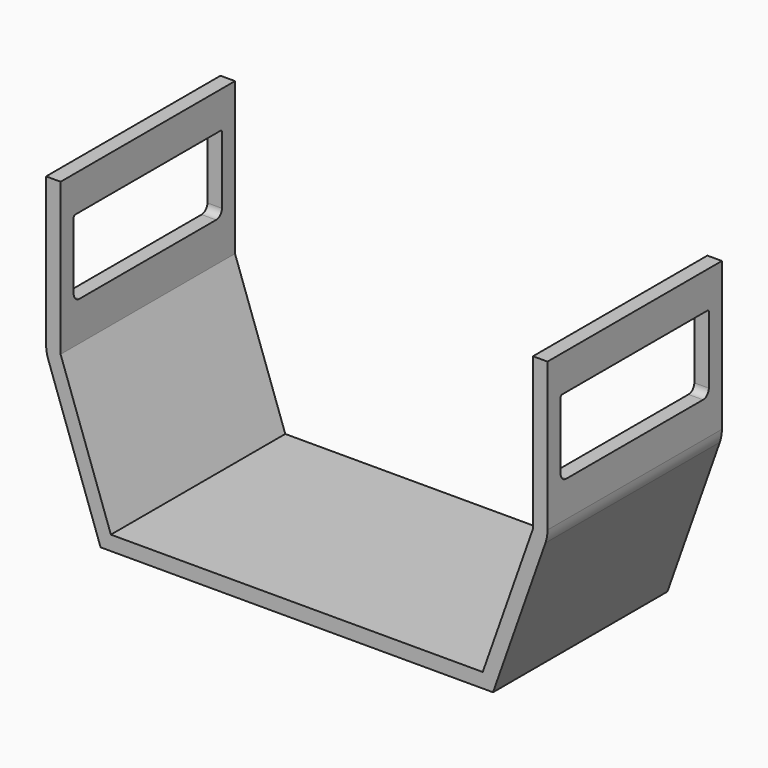
from build123d import *

# Parameters (mm, degrees)
F1_DEPTH = 30
F3_DEPTH = 70


with BuildPart() as f1:
    # F0 (on Front) → F1 (new body)
    with BuildSketch(Plane.XZ):
        with BuildLine():
            Line((-27, 0), (0, 0))
            Line((0, 0), (27, 0))
            Line((27, 0), (34.214952, 20.442363))
            ThreePointArc((34.214952, 20.442363), (34.428223, 21.262295), (34.5, 22.106464))
            Line((34.5, 22.106464), (34.5, 42.5))
            Line((34.5, 42.5), (32.5, 42.5))
            Line((32.5, 42.5), (32.5, 21.592585))
            Line((32.5, 21.592585), (25.58497, 2))
            Line((25.58497, 2), (0, 2))
            Line((0, 2), (-25.58497, 2))
            Line((-25.58497, 2), (-32.5, 21.592585))
            Line((-32.5, 21.592585), (-32.5, 42.5))
            Line((-32.5, 42.5), (-34.5, 42.5))
            Line((-34.5, 42.5), (-34.5, 22.106464))
            ThreePointArc((-34.5, 22.106464), (-34.428223, 21.262295), (-34.214952, 20.442363))
            Line((-34.214952, 20.442363), (-27, 0))
        make_face()
    extrude(amount=F1_DEPTH)

    # F2 (on face) → F3 (cut)
    with BuildSketch(Plane(origin=(-34.5, 0, 0), x_dir=(0, -1, 0), z_dir=(-1, 0, 0))):
        with BuildLine():
            ThreePointArc((2.5, 37.5), (2.323223, 37.426777), (2.25, 37.25))
            Line((2.25, 37.25), (2.25, 28))
            ThreePointArc((2.25, 28), (2.542893, 27.292893), (3.25, 27))
            Line((3.25, 27), (26.75, 27))
            ThreePointArc((26.75, 27), (27.457107, 27.292893), (27.75, 28))
            Line((27.75, 28), (27.75, 37.25))
            ThreePointArc((27.75, 37.25), (27.676777, 37.426777), (27.5, 37.5))
            Line((27.5, 37.5), (2.5, 37.5))
        make_face()
    extrude(amount=-F3_DEPTH, mode=Mode.SUBTRACT)


solid = f1.part
